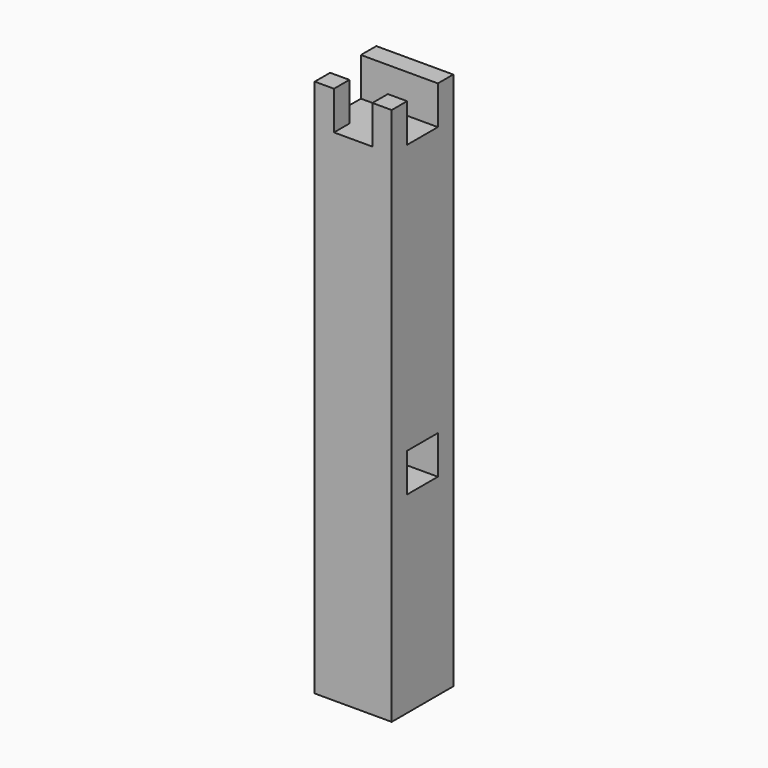
from build123d import *

# Parameters (mm, degrees)
F0_W     = 101.6
F0_H     = 711.2
F1_DEPTH = 101.6
F3_W     = 50.8
F3_H     = 50.8
F4_DEPTH = 101.6
F2_W     = 50.8
F2_H     = 50.8
F5_DEPTH = 25.4
F7_DEPTH = 101.6


with BuildPart() as f1:
    # F0 (on Front) → F1 (new body)
    with BuildSketch(Plane.XZ):
        Rectangle(F0_W, F0_H)
    extrude(amount=F1_DEPTH)

    # F3 (on face) → F4 (cut)
    with BuildSketch(Plane.YZ.offset(50.8)):
        with Locations((-50.8, 330.2)):
            Rectangle(F3_W, F3_H)
    extrude(amount=-F4_DEPTH, mode=Mode.SUBTRACT)

    # F2 (on face) → F5 (cut)
    with BuildSketch(Plane.XZ.offset(101.6)):
        with Locations((0, 330.2)):
            Rectangle(F2_W, F2_H)
    extrude(amount=-F5_DEPTH, mode=Mode.SUBTRACT)

    # F6 (on face) → F7 (cut)
    with BuildSketch(Plane(origin=(-50.8, 0, 0), x_dir=(0, -1, 0), z_dir=(-1, 0, 0))):
        Polygon((50.8, -101.6), (76.2, -101.6), (76.2, -50.8), (25.4, -50.8), (25.4, -101.6), align=None)
    extrude(amount=-F7_DEPTH, mode=Mode.SUBTRACT)


solid = f1.part
